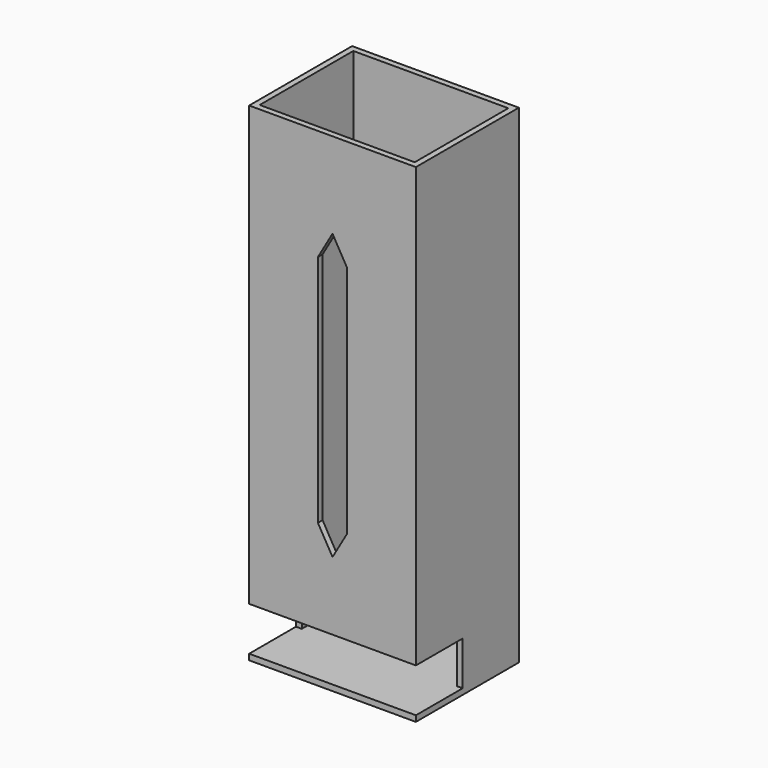
from build123d import *

# Parameters (mm, degrees)
F0_W     = 57
F0_H     = 44
F1_DEPTH = 167
F2_W     = 53
F2_H     = 40
F3_DEPTH = 165
F4_W     = 20
F4_H     = 15
F5_DEPTH = 84
F6_W     = 10
F6_H     = 80
F7_DEPTH = 2


with BuildPart() as f1:
    # F0 (on Top) → F1 (new body)
    with BuildSketch(Plane.XY):
        Rectangle(F0_W, F0_H)
    extrude(amount=F1_DEPTH)

    # F2 (on face) → F3 (cut)
    with BuildSketch(Plane.XY.offset(167)):
        Rectangle(F2_W, F2_H)
    extrude(amount=-F3_DEPTH, mode=Mode.SUBTRACT)

    # F4 (on face) → F5 (cut)
    with BuildSketch(Plane.YZ.offset(28.5)):
        with Locations((-12, 9.5)):
            Rectangle(F4_W, F4_H)
    extrude(amount=-F5_DEPTH, mode=Mode.SUBTRACT)

    # F6 (on face) → F7 (cut)
    with BuildSketch(Plane.XZ.offset(22)):
        Polygon((5, 49.017786), (-5, 49.017786), (0, 40.357532), align=None)
        with Locations((0, 89.017786)):
            Rectangle(F6_W, F6_H)
        Polygon((0, 137.67804), (-5, 129.017786), (5, 129.017786), align=None)
    extrude(amount=-F7_DEPTH, mode=Mode.SUBTRACT)


solid = f1.part
